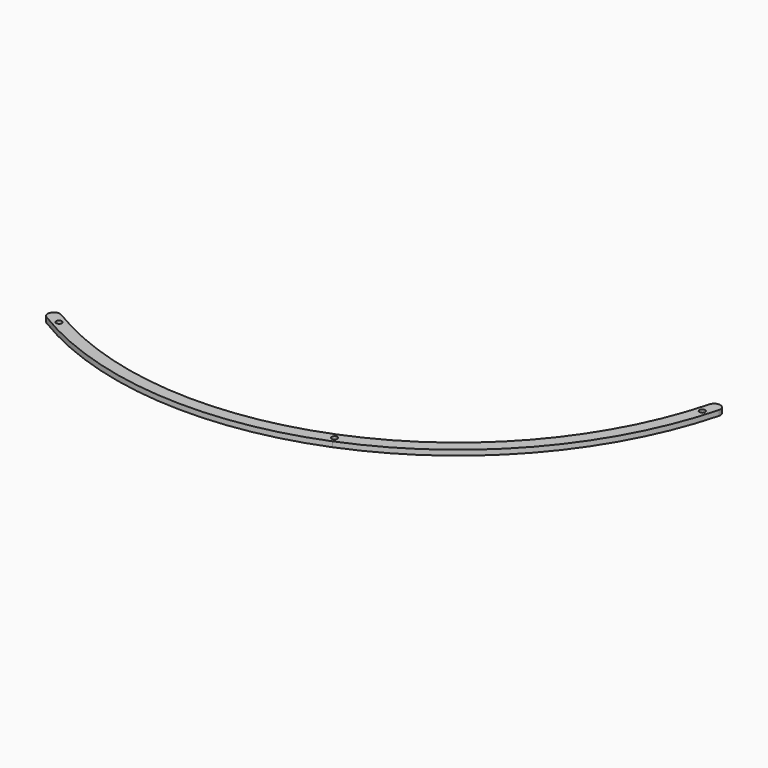
from build123d import *

# Parameters (mm, degrees)
PAD015_DEPTH                        = 3
SKETCH054_R                         = 1.65
POCKET018_DEPTH                     = 358.938883
POCKET018_DEPTH_BACK                = 361.938883
BODY001003005003004_PLACEMENT_ANGLE = 60
CLONE004_PLACEMENT_ANGLE            = 142


with BuildPart() as part:
    # Sketch053 → Pad015 (new body)
    with BuildSketch(Plane.XY):
        with BuildLine():
            ThreePointArc((152.005097, 113.785532), (84.992984, 169.790723), (0, 189.875477))
            Line((0, 189.875477), (0, 196.875477))
            ThreePointArc((157.608957, 117.98038), (88.126358, 176.050273), (0, 196.875477))
            ThreePointArc((152.005097, 113.785532), (156.904451, 113.081026), (157.608957, 117.98038))
        make_face()
    pad015 = extrude(amount=PAD015_DEPTH)

    # Sketch054 → Pocket018 (cut, two sides)
    with BuildSketch(Plane.XY) as pocket018_sk:
        with Locations((150.82443, 121.020933)):
            Circle(SKETCH054_R)
        with BuildLine():
            ThreePointArc((0, 191.725477), (1.65, 193.375477), (0, 195.025477))
            Line((0, 191.725477), (0, 195.025477))
        make_face()
    pocket018 = extrude(amount=-POCKET018_DEPTH, mode=Mode.SUBTRACT) + extrude(pocket018_sk.sketch, amount=POCKET018_DEPTH_BACK, mode=Mode.SUBTRACT)

    # Mirrored020: Pad015, Pocket018 across Sketch053 V_Axis
    add(pad015.mirror(Plane(origin=(0, 0, 0), x_dir=(0, 0, 1), z_dir=(1, 0, 0))))
    add(pocket018.mirror(Plane(origin=(0, 0, 0), x_dir=(0, 0, 1), z_dir=(1, 0, 0))), mode=Mode.SUBTRACT)


with BuildPart() as part_1:
    # Body001003005003004 placement: moved
    add(part.part.rotate(Axis((0, 0, 0), (0, 0, 1)), BODY001003005003004_PLACEMENT_ANGLE))


with BuildPart() as part_2:
    # Clone004 placement: moved
    add(part_1.part.moved(Location((1306, 669, 0))).rotate(Axis((1306, 669, 0), (0, 0, 1)), CLONE004_PLACEMENT_ANGLE))


solid = part_2.part
